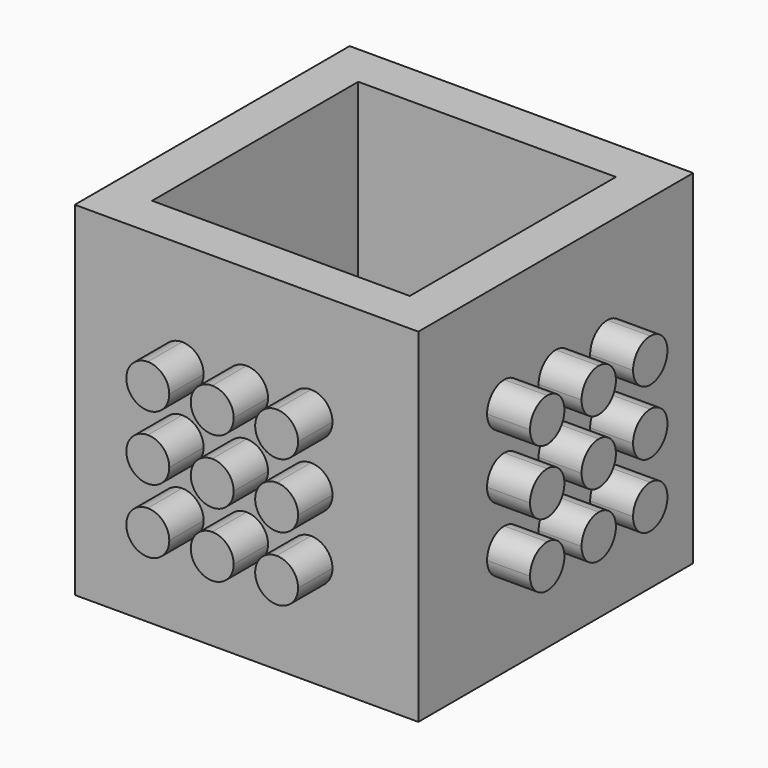
from build123d import *

# Parameters (mm, degrees)
F0_W      = 80
F0_H      = 80
F1_DEPTH  = 80
F2_W      = 60
F2_H      = 60
F3_DEPTH  = 70
F6_DEPTH  = 10
F8_DEPTH  = 10
F9_DEPTH  = 10
F11_DEPTH = 10


with BuildPart() as f1:
    # F0 (on Front) → F1 (new body)
    with BuildSketch(Plane.XZ):
        with Locations((40, 40)):
            Rectangle(F0_W, F0_H)
    extrude(amount=F1_DEPTH)

    # F2 (on face) → F3 (cut)
    with BuildSketch(Plane.XY.offset(80)):
        with Locations((40, -40)):
            Rectangle(F2_W, F2_H)
    extrude(amount=-F3_DEPTH, mode=Mode.SUBTRACT)

    # F4 (on face) → F6 (join)
    with BuildSketch(Plane.XZ.offset(80)):
        with BuildLine():
            ThreePointArc((20, 25), (21.4644660941, 21.4644660941), (25, 20))
            ThreePointArc((25, 20), (28.5355339059, 21.4644660941), (30, 25))
            ThreePointArc((30, 25), (28.5355339059, 28.5355339059), (25, 30))
            ThreePointArc((25, 30), (21.4644660941, 28.5355339059), (20, 25))
        make_face()
        with BuildLine():
            ThreePointArc((35, 25), (36.4644660941, 21.4644660941), (40, 20))
            ThreePointArc((40, 20), (43.5355339059, 21.4644660941), (45, 25))
            ThreePointArc((45, 25), (43.5355339059, 28.5355339059), (40, 30))
            ThreePointArc((40, 30), (36.4644660941, 28.5355339059), (35, 25))
        make_face()
        with BuildLine():
            ThreePointArc((50, 25), (51.4644660941, 21.4644660941), (55, 20))
            ThreePointArc((55, 20), (58.5355339059, 21.4644660941), (60, 25))
            ThreePointArc((60, 25), (58.5355339059, 28.5355339059), (55, 30))
            ThreePointArc((55, 30), (51.4644660941, 28.5355339059), (50, 25))
        make_face()
        with BuildLine():
            ThreePointArc((55, 35), (58.5355339059, 36.4644660941), (60, 40))
            ThreePointArc((60, 40), (58.5355339059, 43.5355339059), (55, 45))
            ThreePointArc((55, 45), (51.4644660941, 43.5355339059), (50, 40))
            ThreePointArc((50, 40), (51.4644660941, 36.4644660941), (55, 35))
        make_face()
        with BuildLine():
            ThreePointArc((35, 40), (36.4644660941, 36.4644660941), (40, 35))
            ThreePointArc((40, 35), (43.5355339059, 36.4644660941), (45, 40))
            ThreePointArc((45, 40), (43.5355339059, 43.5355339059), (40, 45))
            ThreePointArc((40, 45), (36.4644660941, 43.5355339059), (35, 40))
        make_face()
        with BuildLine():
            ThreePointArc((25, 45), (21.4644660941, 43.5355339059), (20, 40))
            ThreePointArc((20, 40), (21.4644660941, 36.4644660941), (25, 35))
            ThreePointArc((25, 35), (28.5355339059, 36.4644660941), (30, 40))
            ThreePointArc((30, 40), (28.5355339059, 43.5355339059), (25, 45))
        make_face()
        with BuildLine():
            ThreePointArc((25, 60), (21.4644660941, 58.5355339059), (20, 55))
            ThreePointArc((20, 55), (21.4644660941, 51.4644660941), (25, 50))
            ThreePointArc((25, 50), (28.5355339059, 51.4644660941), (30, 55))
            ThreePointArc((30, 55), (28.5355339059, 58.5355339059), (25, 60))
        make_face()
        with BuildLine():
            ThreePointArc((45, 55), (43.5355339059, 58.5355339059), (40, 60))
            ThreePointArc((40, 60), (36.4644660941, 58.5355339059), (35, 55))
            ThreePointArc((35, 55), (36.4644660941, 51.4644660941), (40, 50))
            ThreePointArc((40, 50), (43.5355339059, 51.4644660941), (45, 55))
        make_face()
        with BuildLine():
            ThreePointArc((55, 50), (58.5355339059, 51.4644660941), (60, 55))
            ThreePointArc((60, 55), (58.5355339059, 58.5355339059), (55, 60))
            ThreePointArc((55, 60), (51.4644660941, 58.5355339059), (50, 55))
            ThreePointArc((50, 55), (51.4644660941, 51.4644660941), (55, 50))
        make_face()
    extrude(amount=F6_DEPTH)

    # F7 (on face) → F8 (join)
    with BuildSketch(Plane(origin=(0, 0, 0), x_dir=(-1, 0, 0), z_dir=(0, 1, 0))):
        with BuildLine():
            ThreePointArc((-55, 60), (-58.5355339059, 58.5355339059), (-60, 55))
            ThreePointArc((-60, 55), (-58.5355339059, 51.4644660941), (-55, 50))
            ThreePointArc((-55, 50), (-51.4644660941, 51.4644660941), (-50, 55))
            ThreePointArc((-50, 55), (-51.4644660941, 58.5355339059), (-55, 60))
        make_face()
        with BuildLine():
            ThreePointArc((-35, 55), (-36.4644660941, 58.5355339059), (-40, 60))
            ThreePointArc((-40, 60), (-43.5355339059, 58.5355339059), (-45, 55))
            ThreePointArc((-45, 55), (-43.5355339059, 51.4644660941), (-40, 50))
            ThreePointArc((-40, 50), (-36.4644660941, 51.4644660941), (-35, 55))
        make_face()
        with BuildLine():
            ThreePointArc((-25, 50), (-21.4644660941, 51.4644660941), (-20, 55))
            ThreePointArc((-20, 55), (-21.4644660941, 58.5355339059), (-25, 60))
            ThreePointArc((-25, 60), (-28.5355339059, 58.5355339059), (-30, 55))
            ThreePointArc((-30, 55), (-28.5355339059, 51.4644660941), (-25, 50))
        make_face()
        with BuildLine():
            ThreePointArc((-25, 35), (-21.4644660941, 36.4644660941), (-20, 40))
            ThreePointArc((-20, 40), (-21.4644660941, 43.5355339059), (-25, 45))
            ThreePointArc((-25, 45), (-28.5355339059, 43.5355339059), (-30, 40))
            ThreePointArc((-30, 40), (-28.5355339059, 36.4644660941), (-25, 35))
        make_face()
        with BuildLine():
            ThreePointArc((-30, 25), (-28.5355339059, 21.4644660941), (-25, 20))
            ThreePointArc((-25, 20), (-21.4644660941, 21.4644660941), (-20, 25))
            ThreePointArc((-20, 25), (-21.4644660941, 28.5355339059), (-25, 30))
            ThreePointArc((-25, 30), (-28.5355339059, 28.5355339059), (-30, 25))
        make_face()
        with BuildLine():
            ThreePointArc((-45, 25), (-43.5355339059, 21.4644660941), (-40, 20))
            ThreePointArc((-40, 20), (-36.4644660941, 21.4644660941), (-35, 25))
            ThreePointArc((-35, 25), (-36.4644660941, 28.5355339059), (-40, 30))
            ThreePointArc((-40, 30), (-43.5355339059, 28.5355339059), (-45, 25))
        make_face()
        with BuildLine():
            ThreePointArc((-60, 25), (-58.5355339059, 21.4644660941), (-55, 20))
            ThreePointArc((-55, 20), (-51.4644660941, 21.4644660941), (-50, 25))
            ThreePointArc((-50, 25), (-51.4644660941, 28.5355339059), (-55, 30))
            ThreePointArc((-55, 30), (-58.5355339059, 28.5355339059), (-60, 25))
        make_face()
        with BuildLine():
            ThreePointArc((-55, 45), (-58.5355339059, 43.5355339059), (-60, 40))
            ThreePointArc((-60, 40), (-58.5355339059, 36.4644660941), (-55, 35))
            ThreePointArc((-55, 35), (-51.4644660941, 36.4644660941), (-50, 40))
            ThreePointArc((-50, 40), (-51.4644660941, 43.5355339059), (-55, 45))
        make_face()
        with BuildLine():
            ThreePointArc((-45, 40), (-43.5355339059, 36.4644660941), (-40, 35))
            ThreePointArc((-40, 35), (-36.4644660941, 36.4644660941), (-35, 40))
            ThreePointArc((-35, 40), (-36.4644660941, 43.5355339059), (-40, 45))
            ThreePointArc((-40, 45), (-43.5355339059, 43.5355339059), (-45, 40))
        make_face()
    extrude(amount=F8_DEPTH)

    # F5 (on face) → F9 (join)
    with BuildSketch(Plane.YZ.offset(80)):
        with BuildLine():
            ThreePointArc((-55, 60), (-58.5355339059, 58.5355339059), (-60, 55))
            ThreePointArc((-60, 55), (-58.5355339059, 51.4644660941), (-55, 50))
            ThreePointArc((-55, 50), (-51.4644660941, 51.4644660941), (-50, 55))
            ThreePointArc((-50, 55), (-51.4644660941, 58.5355339059), (-55, 60))
        make_face()
        with BuildLine():
            ThreePointArc((-35, 55), (-36.4644660941, 58.5355339059), (-40, 60))
            ThreePointArc((-40, 60), (-43.5355339059, 58.5355339059), (-45, 55))
            ThreePointArc((-45, 55), (-43.5355339059, 51.4644660941), (-40, 50))
            ThreePointArc((-40, 50), (-36.4644660941, 51.4644660941), (-35, 55))
        make_face()
        with BuildLine():
            ThreePointArc((-25, 50), (-21.4644660941, 51.4644660941), (-20, 55))
            ThreePointArc((-20, 55), (-21.4644660941, 58.5355339059), (-25, 60))
            ThreePointArc((-25, 60), (-28.5355339059, 58.5355339059), (-30, 55))
            ThreePointArc((-30, 55), (-28.5355339059, 51.4644660941), (-25, 50))
        make_face()
        with BuildLine():
            ThreePointArc((-25, 35), (-21.4644660941, 36.4644660941), (-20, 40))
            ThreePointArc((-20, 40), (-21.4644660941, 43.5355339059), (-25, 45))
            ThreePointArc((-25, 45), (-28.5355339059, 43.5355339059), (-30, 40))
            ThreePointArc((-30, 40), (-28.5355339059, 36.4644660941), (-25, 35))
        make_face()
        with BuildLine():
            ThreePointArc((-30, 25), (-28.5355339059, 21.4644660941), (-25, 20))
            ThreePointArc((-25, 20), (-21.4644660941, 21.4644660941), (-20, 25))
            ThreePointArc((-20, 25), (-21.4644660941, 28.5355339059), (-25, 30))
            ThreePointArc((-25, 30), (-28.5355339059, 28.5355339059), (-30, 25))
        make_face()
        with BuildLine():
            ThreePointArc((-45, 25), (-43.5355339059, 21.4644660941), (-40, 20))
            ThreePointArc((-40, 20), (-36.4644660941, 21.4644660941), (-35, 25))
            ThreePointArc((-35, 25), (-36.4644660941, 28.5355339059), (-40, 30))
            ThreePointArc((-40, 30), (-43.5355339059, 28.5355339059), (-45, 25))
        make_face()
        with BuildLine():
            ThreePointArc((-45, 40), (-43.5355339059, 36.4644660941), (-40, 35))
            ThreePointArc((-40, 35), (-36.4644660941, 36.4644660941), (-35, 40))
            ThreePointArc((-35, 40), (-36.4644660941, 43.5355339059), (-40, 45))
            ThreePointArc((-40, 45), (-43.5355339059, 43.5355339059), (-45, 40))
        make_face()
        with BuildLine():
            ThreePointArc((-55, 45), (-58.5355339059, 43.5355339059), (-60, 40))
            ThreePointArc((-60, 40), (-58.5355339059, 36.4644660941), (-55, 35))
            ThreePointArc((-55, 35), (-51.4644660941, 36.4644660941), (-50, 40))
            ThreePointArc((-50, 40), (-51.4644660941, 43.5355339059), (-55, 45))
        make_face()
        with BuildLine():
            ThreePointArc((-60, 25), (-58.5355339059, 21.4644660941), (-55, 20))
            ThreePointArc((-55, 20), (-51.4644660941, 21.4644660941), (-50, 25))
            ThreePointArc((-50, 25), (-51.4644660941, 28.5355339059), (-55, 30))
            ThreePointArc((-55, 30), (-58.5355339059, 28.5355339059), (-60, 25))
        make_face()
    extrude(amount=F9_DEPTH)

    # F10 (on face) → F11 (join)
    with BuildSketch(Plane(origin=(0, 0, 0), x_dir=(0, -1, 0), z_dir=(-1, 0, 0))):
        with BuildLine():
            ThreePointArc((25, 60), (21.4644660941, 58.5355339059), (20, 55))
            ThreePointArc((20, 55), (21.4644660941, 51.4644660941), (25, 50))
            ThreePointArc((25, 50), (28.5355339059, 51.4644660941), (30, 55))
            ThreePointArc((30, 55), (28.5355339059, 58.5355339059), (25, 60))
        make_face()
        with BuildLine():
            ThreePointArc((45, 55), (43.5355339059, 58.5355339059), (40, 60))
            ThreePointArc((40, 60), (36.4644660941, 58.5355339059), (35, 55))
            ThreePointArc((35, 55), (36.4644660941, 51.4644660941), (40, 50))
            ThreePointArc((40, 50), (43.5355339059, 51.4644660941), (45, 55))
        make_face()
        with BuildLine():
            ThreePointArc((55, 50), (58.5355339059, 51.4644660941), (60, 55))
            ThreePointArc((60, 55), (58.5355339059, 58.5355339059), (55, 60))
            ThreePointArc((55, 60), (51.4644660941, 58.5355339059), (50, 55))
            ThreePointArc((50, 55), (51.4644660941, 51.4644660941), (55, 50))
        make_face()
        with BuildLine():
            ThreePointArc((25, 45), (21.4644660941, 43.5355339059), (20, 40))
            ThreePointArc((20, 40), (21.4644660941, 36.4644660941), (25, 35))
            ThreePointArc((25, 35), (28.5355339059, 36.4644660941), (30, 40))
            ThreePointArc((30, 40), (28.5355339059, 43.5355339059), (25, 45))
        make_face()
        with BuildLine():
            ThreePointArc((35, 40), (36.4644660941, 36.4644660941), (40, 35))
            ThreePointArc((40, 35), (43.5355339059, 36.4644660941), (45, 40))
            ThreePointArc((45, 40), (43.5355339059, 43.5355339059), (40, 45))
            ThreePointArc((40, 45), (36.4644660941, 43.5355339059), (35, 40))
        make_face()
        with BuildLine():
            ThreePointArc((50, 25), (51.4644660941, 21.4644660941), (55, 20))
            ThreePointArc((55, 20), (58.5355339059, 21.4644660941), (60, 25))
            ThreePointArc((60, 25), (58.5355339059, 28.5355339059), (55, 30))
            ThreePointArc((55, 30), (51.4644660941, 28.5355339059), (50, 25))
        make_face()
        with BuildLine():
            ThreePointArc((35, 25), (36.4644660941, 21.4644660941), (40, 20))
            ThreePointArc((40, 20), (43.5355339059, 21.4644660941), (45, 25))
            ThreePointArc((45, 25), (43.5355339059, 28.5355339059), (40, 30))
            ThreePointArc((40, 30), (36.4644660941, 28.5355339059), (35, 25))
        make_face()
        with BuildLine():
            ThreePointArc((20, 25), (21.4644660941, 21.4644660941), (25, 20))
            ThreePointArc((25, 20), (28.5355339059, 21.4644660941), (30, 25))
            ThreePointArc((30, 25), (28.5355339059, 28.5355339059), (25, 30))
            ThreePointArc((25, 30), (21.4644660941, 28.5355339059), (20, 25))
        make_face()
        with BuildLine():
            ThreePointArc((55, 35), (58.5355339059, 36.4644660941), (60, 40))
            ThreePointArc((60, 40), (58.5355339059, 43.5355339059), (55, 45))
            ThreePointArc((55, 45), (51.4644660941, 43.5355339059), (50, 40))
            ThreePointArc((50, 40), (51.4644660941, 36.4644660941), (55, 35))
        make_face()
    extrude(amount=F11_DEPTH)


solid = f1.part
